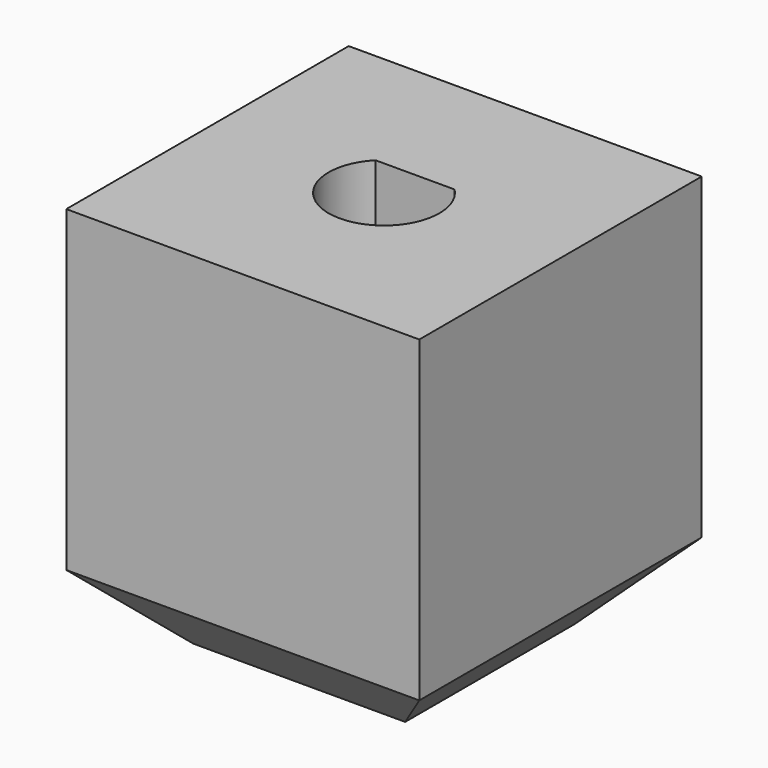
from build123d import *

# Parameters (mm, degrees)
BOX406008008_W     = 10
BOX406008008_H     = 10
BOX406008008_DEPTH = 19
CYLINDER079_R      = 1.57
CYLINDER079_DEPTH  = 17
BOX406008009_W     = 10
BOX406008009_H     = 10
BOX406008009_DEPTH = 11
CHAMFER004_SIZE    = 2


with BuildPart() as cube343:
    # Box406008008 → Box406008008 (new body)
    with BuildSketch(Plane(origin=(-5, 1.1, 1.5), x_dir=(1, 0, 0), z_dir=(0, 0, 1))):
        with Locations((5, 5)):
            Rectangle(BOX406008008_W, BOX406008008_H)
    extrude(amount=BOX406008008_DEPTH)


with BuildPart() as motor_shaft_hole:
    # Cylinder079 → Cylinder079 (new body)
    with BuildSketch(Plane.XY.offset(9)):
        Circle(CYLINDER079_R)
    extrude(amount=CYLINDER079_DEPTH)

    # Cut064: cut Cube343
    add(cube343.part, mode=Mode.SUBTRACT)


with BuildPart() as square_peg001:
    # Box406008009 → Box406008009 (new body)
    with BuildSketch(Plane(origin=(-5, -5, 7), x_dir=(1, 0, 0), z_dir=(0, 0, 1))):
        with Locations((5, 5)):
            Rectangle(BOX406008009_W, BOX406008009_H)
    extrude(amount=BOX406008009_DEPTH)

    # Cut065: cut Motor Shaft Hole
    add(motor_shaft_hole.part, mode=Mode.SUBTRACT)

    # Chamfer004
    chamfer004_edges = [square_peg001.edges().sort_by_distance(p)[0] for p in [
        (-5, 0, 7),
        (0, -5, 7),
        (0, 5, 7),
        (5, 0, 7),
    ]]
    chamfer(chamfer004_edges, length=CHAMFER004_SIZE)


solid = square_peg001.part
